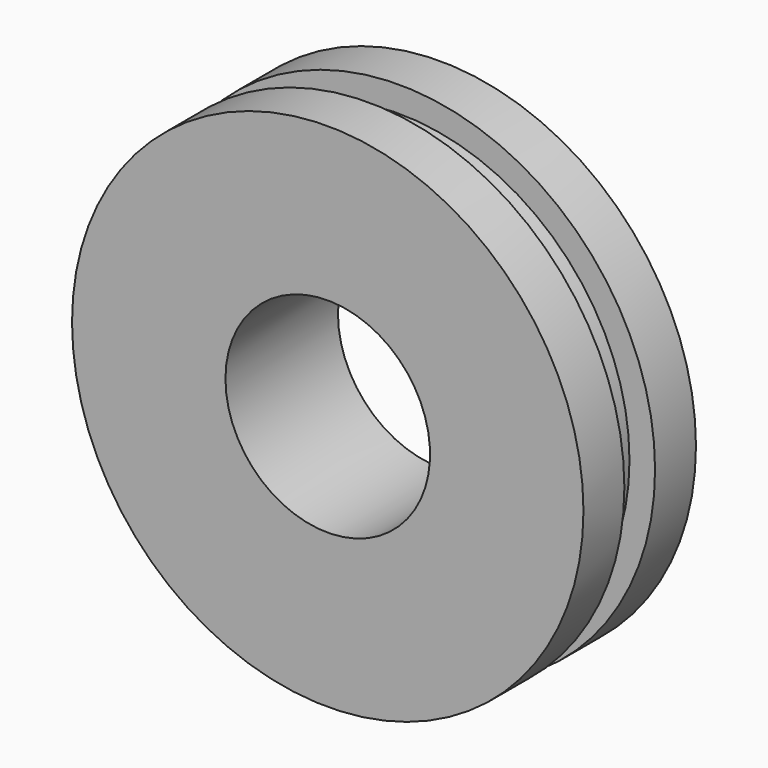
from build123d import *

# Parameters (mm, degrees)
F0_R     = 9
F1_DEPTH = 1.5
F2_R     = 10
F3_DEPTH = 2
F4_R     = 10
F5_DEPTH = 2
F7_D     = 8


with BuildPart() as f1:
    # F0 (on Front) → F1 (new body)
    with BuildSketch(Plane.XZ):
        Circle(F0_R)
    extrude(amount=F1_DEPTH)

    # F2 (on face) → F3 (join)
    with BuildSketch(Plane.XZ.offset(1.5)):
        Circle(F2_R)
    extrude(amount=F3_DEPTH)

    # F4 (on face) → F5 (join)
    with BuildSketch(Plane(origin=(0, 0, 0), x_dir=(-1, 0, 0), z_dir=(0, 1, 0))):
        Circle(F4_R)
    extrude(amount=F5_DEPTH)

    # F7 (through all)
    with Locations(Plane.XZ.offset(3.5)):
        with Locations((0, 0)):
            Hole(F7_D / 2)


solid = f1.part
